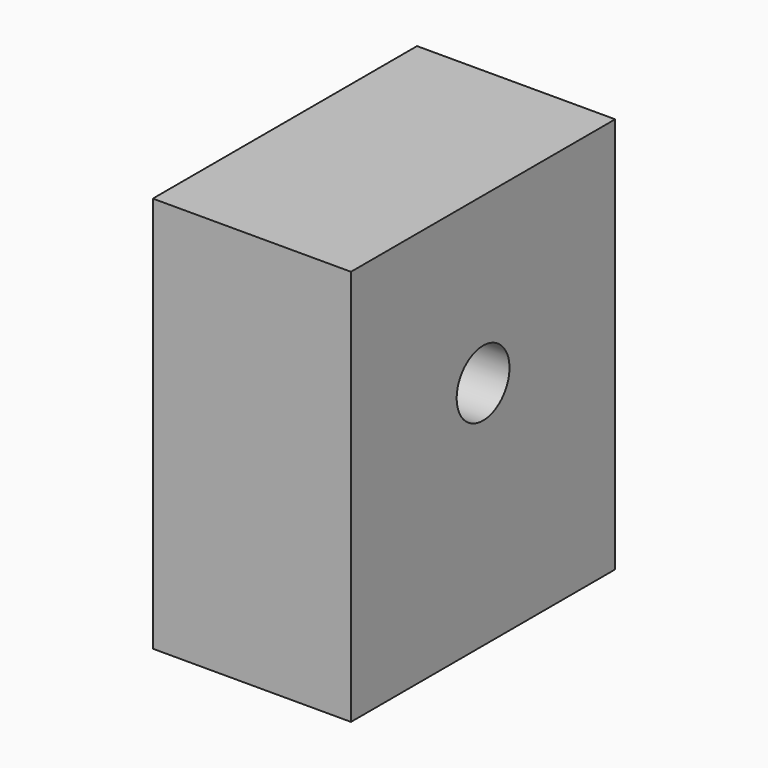
from build123d import *

# Parameters (mm, degrees)
F0_W     = 76.2
F0_H     = 127
F1_DEPTH = 152.4
F2_R     = 12.7
F3_DEPTH = 76.201


with BuildPart() as f1:
    # F0 (on Top) → F1 (new body)
    with BuildSketch(Plane.XY):
        with Locations((-90.624191, 23.250833)):
            Rectangle(F0_W, F0_H)
    extrude(amount=F1_DEPTH)

    # F2 (on face) → F3 (cut, through all)
    with BuildSketch(Plane(origin=(-128.724191, 0, 0), x_dir=(0, -1, 0), z_dir=(-1, 0, 0))):
        with Locations((-23.250833, 88.9)):
            Circle(F2_R)
    extrude(amount=-F3_DEPTH, mode=Mode.SUBTRACT)


solid = f1.part
